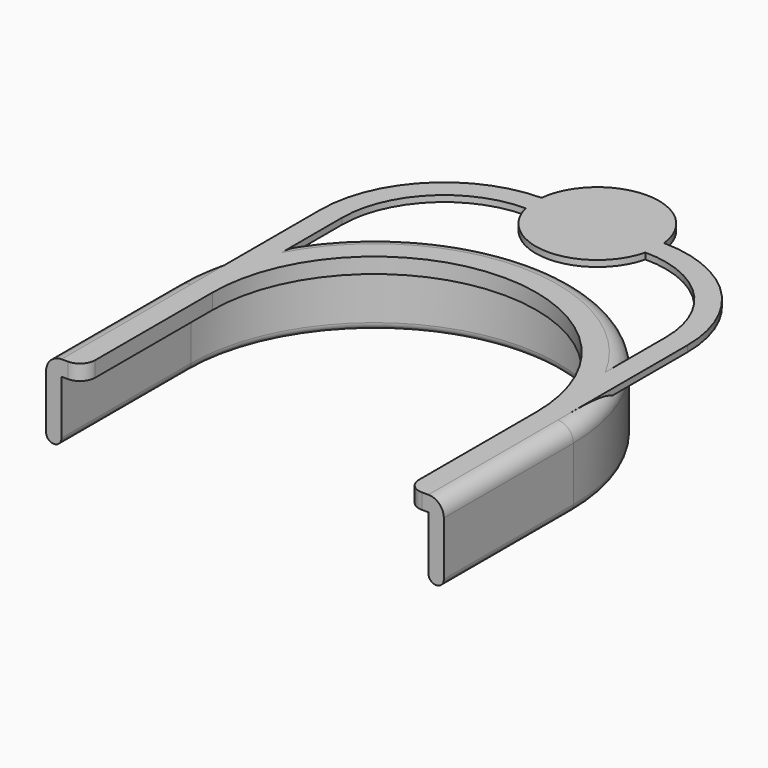
from build123d import *

# Parameters (mm, degrees)
REVOLUTION003_ANGLE = 180
PAD021_DEPTH        = 5.25
FILLET004_R         = 0.49
PAD022_DEPTH        = 0.2


with BuildPart() as part:
    # Sketch038 → Revolution003 (revolve)
    with BuildSketch(Plane.XZ):
        with BuildLine():
            Line((5.25, 2.7), (5.25, 2.2))
            Line((5.25, 2.2), (5.95, 2.2))
            Line((5.95, 2.2), (5.95, 0.45))
            ThreePointArc((5.95, 0.45), (6.2, 0.2), (6.45, 0.45))
            Line((6.45, 0.45), (6.45, 2.2))
            ThreePointArc((6.45, 2.2), (6.3035533906, 2.5535533906), (5.95, 2.7))
            Line((5.25, 2.7), (5.95, 2.7))
        make_face()
    revolve(axis=Axis((0, 0, 0), (0, 0, 1)), revolution_arc=REVOLUTION003_ANGLE)

    # Sketch038 → Pad021 (new body)
    with BuildSketch(Plane.XZ):
        with BuildLine():
            Line((5.25, 2.7), (5.25, 2.2))
            Line((5.25, 2.2), (5.95, 2.2))
            Line((5.95, 2.2), (5.95, 0.45))
            ThreePointArc((5.95, 0.45), (6.2, 0.2), (6.45, 0.45))
            Line((6.45, 0.45), (6.45, 2.2))
            ThreePointArc((6.45, 2.2), (6.3035533906, 2.5535533906), (5.95, 2.7))
            Line((5.25, 2.7), (5.95, 2.7))
        make_face()
    pad021 = extrude(amount=PAD021_DEPTH)

    # Mirrored: Pad021 across Sketch038 V_Axis
    add(pad021.mirror(Plane(origin=(0, 0, 0), x_dir=(0, -1, 0), z_dir=(1, 0, 0))))

    # Fillet004
    fillet004_edges = [part.edges().sort_by_distance(p)[0] for p in [
        (-5.25, -5.25, 2.45),
        (5.25, -5.25, 2.45),
    ]]
    fillet(fillet004_edges, radius=FILLET004_R)

    # Sketch045 → Pad022 (join)
    with BuildSketch(Plane.XY.offset(2.7)):
        with BuildLine():
            ThreePointArc((-1.9419855366, 8.5580144634), (0, 7.0362321709), (1.9419855366, 8.5580144634))
            ThreePointArc((5.25, 5.25), (4.2811049959, 7.5891194594), (1.9419855366, 8.5580144634))
            Line((5.25, 5.25), (5.25, 2.8))
            ThreePointArc((5.95, 0), (5.7723478759, 1.443086969), (5.25, 2.8))
            Line((5.95, 0), (5.95, 5.25))
            ThreePointArc((5.95, 5.25), (4.7921943754, 8.0678874204), (1.9876941818, 9.2577538171))
            ThreePointArc((1.9876941818, 9.2577538172), (0, 11.0362321709), (-1.9876941818, 9.2577538172))
            ThreePointArc((-1.9876941818, 9.2577538171), (-4.7921943754, 8.0678874204), (-5.95, 5.25))
            Line((-5.95, 0), (-5.95, 5.25))
            ThreePointArc((-5.25, 2.8), (-5.7723478759, 1.443086969), (-5.95, 0))
            Line((-5.25, 5.25), (-5.25, 2.8))
            ThreePointArc((-1.9419855366, 8.5580144634), (-4.2811049959, 7.5891194594), (-5.25, 5.25))
        make_face()
    extrude(amount=-PAD022_DEPTH)


solid = part.part
